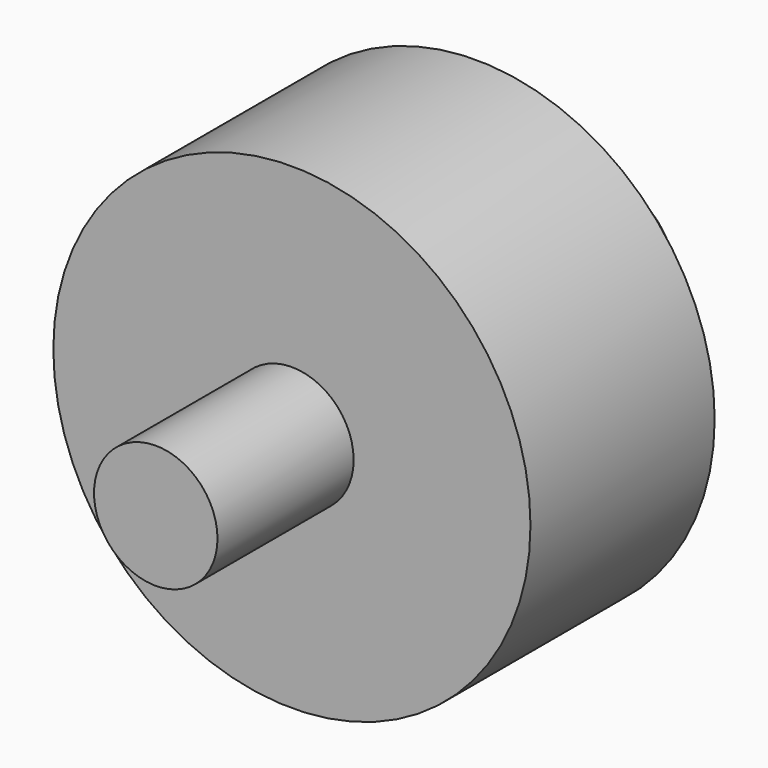
from build123d import *


with BuildPart() as f1:
    # F0 (on Top) → F1 (revolve)
    with BuildSketch(Plane.XY):
        with BuildLine():
            Line((4.106316, 14.965238), (0, 14.965238))
            Line((0, 14.965238), (0, -34.858055))
            Line((0, -34.858055), (10.128911, -34.858055))
            Line((10.128911, -34.858055), (10.128911, -6.93511))
            Line((10.128911, -6.93511), (39.14687, -6.93511))
            Line((39.14687, -6.93511), (39.14687, 30.842992))
            Line((39.14687, 30.842992), (15.860774, 30.842992))
            ThreePointArc((15.860774, 30.842992), (16.377395, 51.03438), (0, 62.855548))
            Line((0, 62.855548), (0, 20.000772))
            ThreePointArc((0, 20.000772), (2.077466, 20.397103), (4.106316, 20.994353))
            Line((4.106316, 20.994353), (4.106316, 14.965238))
        make_face()
    revolve(axis=Axis((0, 13.998746, 0), (0, -1, 0)))


solid = f1.part
